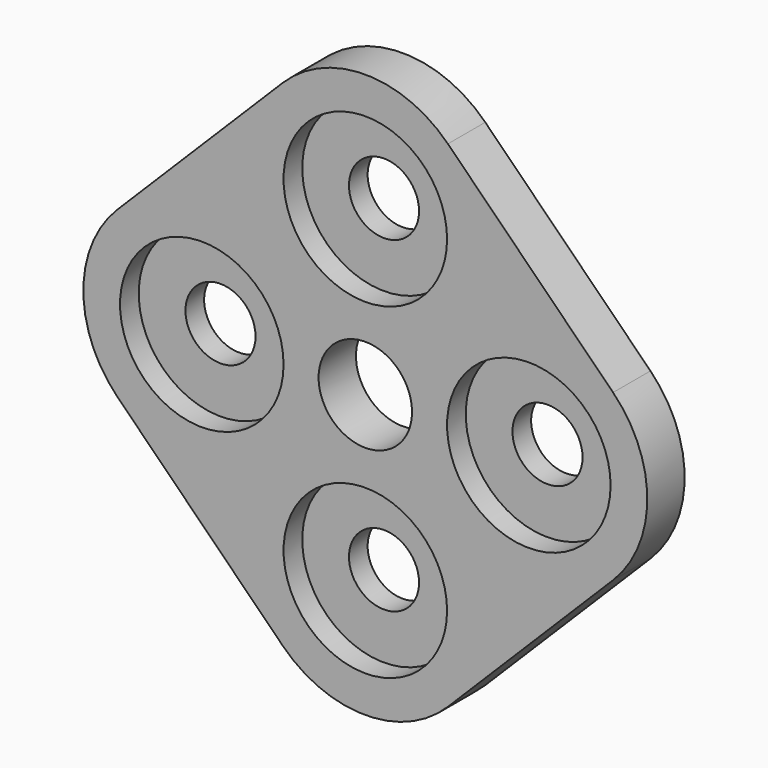
from build123d import *

# Parameters (mm, degrees)
F0_R     = 1.5
F0_R_2   = 2
F1_DEPTH = 2
F2_R     = 3.5
F3_DEPTH = 1


with BuildPart() as f1:
    # F0 (on Front) → F1 (new body)
    with BuildSketch(Plane.XZ):
        with BuildLine():
            Line((-10.606602, -3.535534), (-3.535534, -10.606602))
            ThreePointArc((-3.535534, -10.606602), (0, -12.071068), (3.535534, -10.606602))
            Line((3.535534, -10.606602), (10.606602, -3.535534))
            ThreePointArc((10.606602, -3.535534), (12.071068, 0), (10.606602, 3.535534))
            Line((10.606602, 3.535534), (3.535534, 10.606602))
            ThreePointArc((3.535534, 10.606602), (0, 12.071068), (-3.535534, 10.606602))
            Line((-3.535534, 10.606602), (-10.606602, 3.535534))
            ThreePointArc((-10.606602, 3.535534), (-12.071068, 0), (-10.606602, -3.535534))
        make_face()
        with Locations((-7, 0)):
            Circle(F0_R, mode=Mode.SUBTRACT)
        with Locations((0, -7)):
            Circle(F0_R, mode=Mode.SUBTRACT)
        Circle(F0_R_2, mode=Mode.SUBTRACT)
        with Locations((7, 0)):
            Circle(F0_R, mode=Mode.SUBTRACT)
        with Locations((0, 7)):
            Circle(F0_R, mode=Mode.SUBTRACT)
    extrude(amount=F1_DEPTH)

    # F2 (on face) → F3 (cut)
    with BuildSketch(Plane.XZ.offset(2)):
        with Locations((-7, 0)):
            Circle(F2_R)
        with Locations((0, -7)):
            Circle(F2_R)
        with Locations((7, 0)):
            Circle(F2_R)
        with Locations((0, 7)):
            Circle(F2_R)
    extrude(amount=-F3_DEPTH, mode=Mode.SUBTRACT)


solid = f1.part
